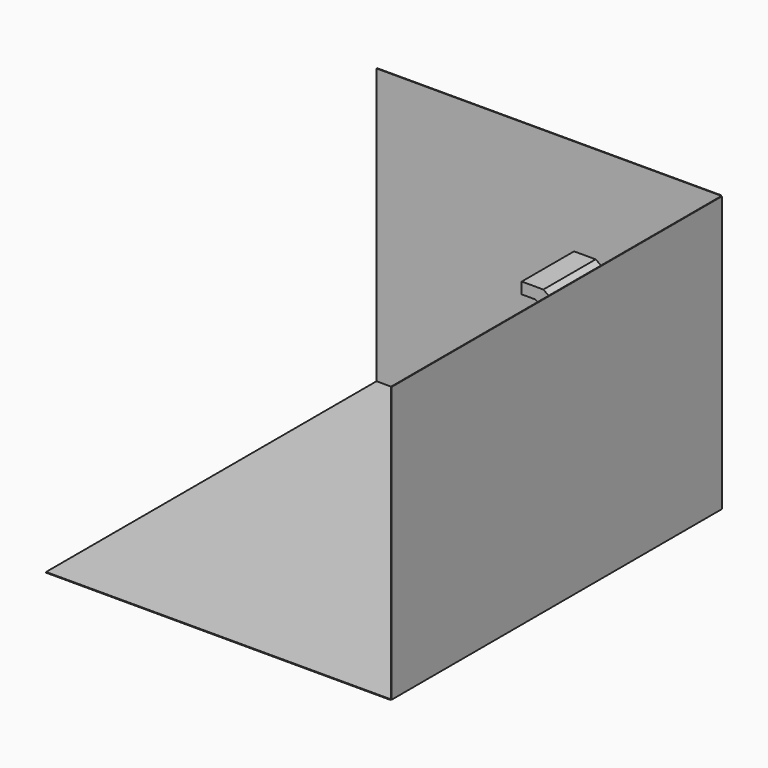
from build123d import *

# Parameters (mm, degrees)
F0_W     = 5000
F0_H     = 6000
F1_DEPTH = 10
F2_W     = 5000
F2_H     = 10
F3_DEPTH = 10
F4_W     = 6000
F4_H     = 4000
F5_DEPTH = 10
F6_DEPTH = 950
F7_DEPTH = 950


with BuildPart() as f1:
    # F0 (on Top) → F1 (new body)
    with BuildSketch(Plane.XY):
        with Locations((-2500, -3000)):
            Rectangle(F0_W, F0_H)
    extrude(amount=-F1_DEPTH)

    # F2 (on Front) → F3 (join)
    with BuildSketch(Plane.XZ):
        Polygon((-5000, 0), (0, 0), (0, 4000), (-5000, 4000), (-5000, 2604.317623), (-1815.98369, 2604.317623), (-1815.98369, 2594.317623), (-854.01986, 1925.464563), (-950, 1750), (-1930, 2430), (-2130, 2430), (-2130, 2594.317623), (-5000, 2594.317623), align=None)
        with Locations((-2500, -5)):
            Rectangle(F2_W, F2_H)
        Polygon((-854.01986, 1925.464563), (-1815.98369, 2594.317623), (-1930, 2430), (-950, 1750), align=None)
        Polygon((-1815.98369, 2594.317623), (-2130, 2594.317623), (-2130, 2430), (-1930, 2430), align=None)
        Polygon((-5000, 2604.317623), (-5000, 2594.317623), (-2130, 2594.317623), (-1815.98369, 2594.317623), (-1815.98369, 2604.317623), align=None)
    extrude(amount=-F3_DEPTH)

    # F4 (on Right) → F5 (join)
    with BuildSketch(Plane.YZ):
        with Locations((-2990, 1990)):
            Rectangle(F4_W, F4_H)
        Polygon((0, 1950), (0, 1750), (-980, 1750), (-3048.337936, 250), (-3048.337936, 0), (-3733.727509, 0), (-3165.754795, 411.905162), (-980, 1950), align=None, mode=Mode.SUBTRACT)
        Polygon((-980, 1750), (0, 1750), (0, 1950), (-980, 1950), (-3165.754795, 411.905162), (-3733.727509, 0), (-3048.337936, 0), (-3048.337936, 250), align=None)
    extrude(amount=F5_DEPTH)

    # F4 (on Right) → F6 (join)
    with BuildSketch(Plane.YZ):
        Polygon((-980, 1750), (0, 1750), (0, 1950), (-980, 1950), (-3165.754795, 411.905162), (-3733.727509, 0), (-3048.337936, 0), (-3048.337936, 250), align=None)
    extrude(amount=-F6_DEPTH)

    # F2 (on Front) → F7 (join)
    with BuildSketch(Plane.XZ):
        Polygon((-854.01986, 1925.464563), (-1815.98369, 2594.317623), (-1930, 2430), (-950, 1750), align=None)
        Polygon((-1815.98369, 2594.317623), (-2130, 2594.317623), (-2130, 2430), (-1930, 2430), align=None)
    extrude(amount=F7_DEPTH)


solid = f1.part
